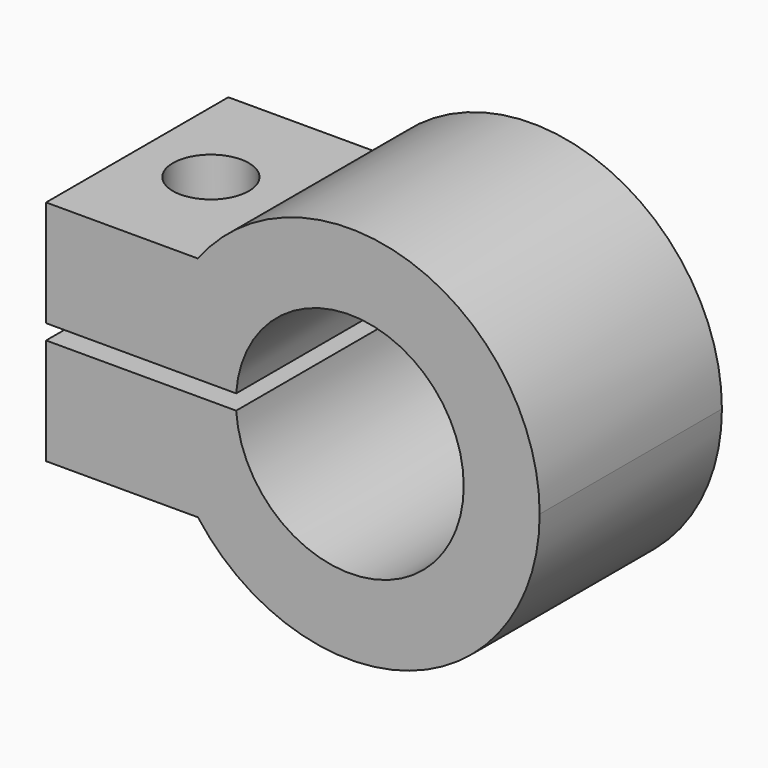
from build123d import *

# Parameters (mm, degrees)
F1_DEPTH = 30
F2_R     = 5
F3_DEPTH = 40.001


with BuildPart() as f1:
    # F0 (on Front) → F1 (new body)
    with BuildSketch(Plane.XZ):
        with BuildLine():
            Line((-40, 1), (-24.9799919936, 1))
            ThreePointArc((-24.9799919936, 1), (-23.5541911331, 8.3785488042), (-20, 15))
            Line((-20, 15), (-40, 15))
            Line((-40, 15), (-40, 1))
        make_face()
        with BuildLine():
            ThreePointArc((-14.9666295471, 1), (0.5002783193, 14.9916550655), (15, 0))
            ThreePointArc((15, 0), (0.5002783193, -14.9916550655), (-14.9666295471, -1))
            Line((-14.9666295471, -1), (-24.9799919936, -1))
            ThreePointArc((-24.9799919936, -1), (-23.5541911331, -8.3785488042), (-20, -15))
            ThreePointArc((-20, -15), (7.9056941504, -23.7170824513), (25, 0))
            ThreePointArc((25, 0), (7.9056941504, 23.7170824513), (-20, 15))
            ThreePointArc((-20, 15), (-23.5541911331, 8.3785488042), (-24.9799919936, 1))
            Line((-24.9799919936, 1), (-14.9666295471, 1))
        make_face()
        with BuildLine():
            ThreePointArc((-20, -15), (-23.5541911331, -8.3785488042), (-24.9799919936, -1))
            Line((-24.9799919936, -1), (-40, -1))
            Line((-40, -1), (-40, -15))
            Line((-40, -15), (-20, -15))
        make_face()
    extrude(amount=F1_DEPTH)

    # F2 (on face) → F3 (cut, through all)
    with BuildSketch(Plane.XY.offset(15)):
        with Locations((-30.2969049662, -15)):
            Circle(F2_R)
    extrude(amount=-F3_DEPTH, mode=Mode.SUBTRACT)


solid = f1.part
